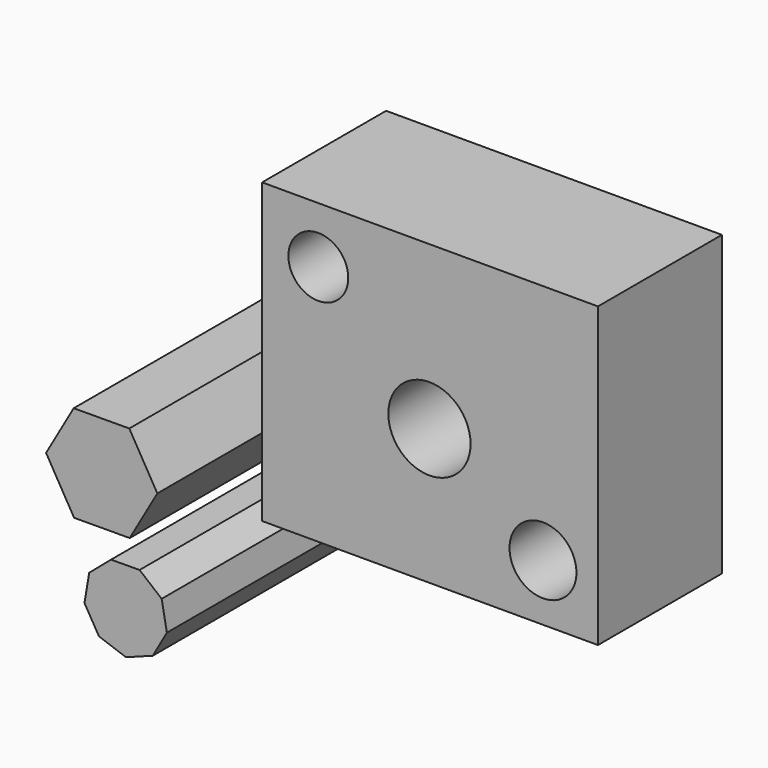
from build123d import *

# Parameters (mm, degrees)
F0_W     = 54.170746
F0_H     = 48.098229
F0_R     = 6.633369
F0_R_2   = 5.401238
F0_R_3   = 4.831014
F1_DEPTH = 25
F3_DEPTH = 40
F5_DEPTH = 40


with BuildPart() as f1:
    # F0 (on Front) → F1 (new body)
    with BuildSketch(Plane.XZ):
        with Locations((27.085373, 24.049114)):
            Rectangle(F0_W, F0_H)
        with Locations((26.988985, 21.880355)):
            Circle(F0_R, mode=Mode.SUBTRACT)
        with Locations((45.302939, 9.156978)):
            Circle(F0_R_2, mode=Mode.SUBTRACT)
        with Locations((9.060588, 39.037641)):
            Circle(F0_R_3, mode=Mode.SUBTRACT)
    extrude(amount=F1_DEPTH)


with BuildPart() as f3:
    # F2 (on Front) → F3 (new body, symmetric)
    with BuildSketch(Plane.XZ):
        Polygon((-14.320178, -14.939623), (-9.969909, -16.483267), (-5.645174, -14.869468), (-3.369565, -10.853341), (-4.207864, -6.314075), (-7.767823, -3.375644), (-12.383696, -3.412973), (-15.895666, -6.408594), (-16.660442, -10.960824), align=None)
    extrude(amount=F3_DEPTH, both=True)


with BuildPart() as f5:
    # F4 (on Front) → F5 (new body, symmetric)
    with BuildSketch(Plane.XZ):
        Polygon((-18.401282, 16.136957), (-22.85331, 8.345908), (-18.332078, 0.594815), (-9.358818, 0.63477), (-4.90679, 8.425818), (-9.428022, 16.176911), align=None)
    extrude(amount=F5_DEPTH, both=True)


solid = Compound([f1.part, f3.part, f5.part])
